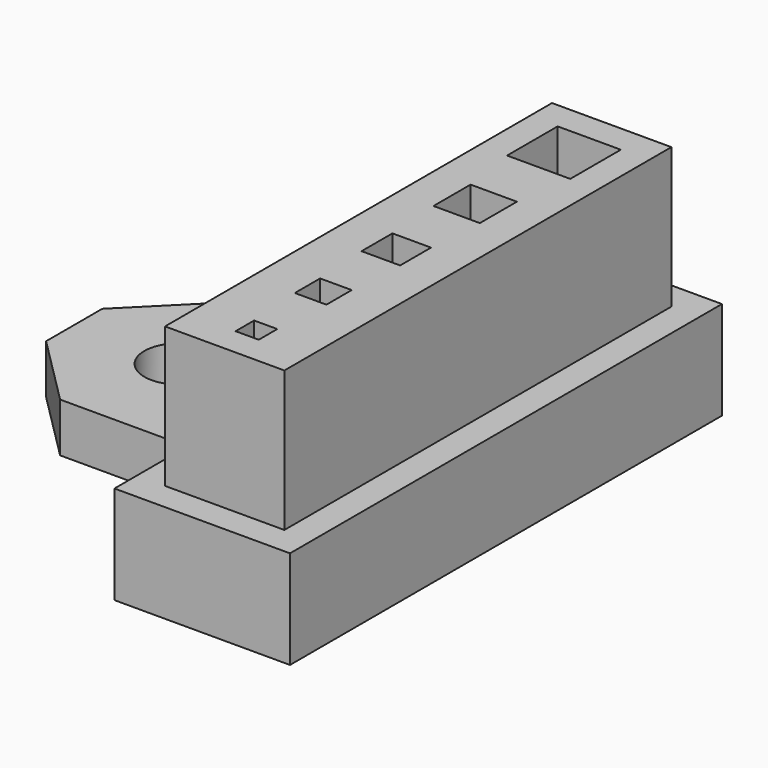
from build123d import *

# Parameters (mm, degrees)
F0_W     = 1.65
F0_H     = 1.65
F0_W_2   = 2.25
F0_H_2   = 2.25
F0_W_3   = 2.75
F0_H_3   = 2.75
F0_R     = 2.5
F0_W_4   = 3.3
F0_H_4   = 3.3
F0_W_5   = 4.5
F0_H_5   = 4.5
F1_DEPTH = 3.5
F2_W     = 1.65
F2_H     = 1.65
F2_W_2   = 2.25
F2_H_2   = 2.25
F2_W_3   = 2.75
F2_H_3   = 2.75
F2_W_4   = 3.3
F2_H_4   = 3.3
F2_W_5   = 4.5
F2_H_5   = 4.5
F3_DEPTH = 3.5
F4_W     = 8.5
F4_H     = 34.45
F5_DEPTH = 10
F6_SIZE  = 5


with BuildPart() as f1:
    # F0 (on Top) → F1 (new body)
    with BuildSketch(Plane.XY):
        Polygon((12.5, 19.225), (0, 19.225), (0, 7.5), (-18.25, 7.5), (-18.25, -7.5), (0, -7.5), (0, -19.225), (12.5, -19.225), align=None)
        with Locations((6.25, -14.4)):
            Rectangle(F0_W, F0_H, mode=Mode.SUBTRACT)
        with Locations((6.25, -8.45)):
            Rectangle(F0_W_2, F0_H_2, mode=Mode.SUBTRACT)
        with Locations((6.25, -1.95)):
            Rectangle(F0_W_3, F0_H_3, mode=Mode.SUBTRACT)
        with Locations((-10.75, 0)):
            Circle(F0_R, mode=Mode.SUBTRACT)
        with Locations((6.25, 5.075)):
            Rectangle(F0_W_4, F0_H_4, mode=Mode.SUBTRACT)
        with Locations((6.25, 12.975)):
            Rectangle(F0_W_5, F0_H_5, mode=Mode.SUBTRACT)
    extrude(amount=F1_DEPTH)

    # F2 (on face) → F3 (join)
    with BuildSketch(Plane.XY.offset(3.5)):
        Polygon((12.5, 19.225), (0, 19.225), (0, 7.5), (0, -7.5), (0, -19.225), (12.5, -19.225), align=None)
        with Locations((6.25, -14.4)):
            Rectangle(F2_W, F2_H, mode=Mode.SUBTRACT)
        with Locations((6.25, -8.45)):
            Rectangle(F2_W_2, F2_H_2, mode=Mode.SUBTRACT)
        with Locations((6.25, -1.95)):
            Rectangle(F2_W_3, F2_H_3, mode=Mode.SUBTRACT)
        with Locations((6.25, 5.075)):
            Rectangle(F2_W_4, F2_H_4, mode=Mode.SUBTRACT)
        with Locations((6.25, 12.975)):
            Rectangle(F2_W_5, F2_H_5, mode=Mode.SUBTRACT)
    extrude(amount=F3_DEPTH)

    # F4 (on face) → F5 (join)
    with BuildSketch(Plane.XY.offset(7)):
        with Locations((6.25, 0)):
            Rectangle(F4_W, F4_H)
        Polygon((5.425, -13.575), (6.75, -13.575), (7.075, -13.575), (7.075, -14.5), (7.075, -15.225), (6.75, -15.225), (5.425, -15.225), (5.425, -14.5), align=None, mode=Mode.SUBTRACT)
        Polygon((5.125, -7.325), (7, -7.325), (7.375, -7.325), (7.375, -9), (7.375, -9.575), (7, -9.575), (5.125, -9.575), (5.125, -9), align=None, mode=Mode.SUBTRACT)
        Polygon((4.875, -0.575), (7.25, -0.575), (7.625, -0.575), (7.625, -3), (7.625, -3.325), (7.25, -3.325), (4.875, -3.325), (4.875, -3), align=None, mode=Mode.SUBTRACT)
        Polygon((4.6, 6.725), (7.5, 6.725), (7.9, 6.725), (7.9, 6.5), (7.9, 3.5), (7.9, 3.425), (7.5, 3.425), (4.6, 3.425), (4.6, 3.5), (4.6, 6.5), align=None, mode=Mode.SUBTRACT)
        Polygon((8, 10.725), (4, 10.725), (4, 14.5), (4, 15.225), (8, 15.225), (8.5, 15.225), (8.5, 14.5), (8.5, 10.725), align=None, mode=Mode.SUBTRACT)
    extrude(amount=F5_DEPTH)

    # F6
    f6_edges = [f1.edges().sort_by_distance(p)[0] for p in [
        (0, 7.5, 1.75),
        (0, -7.5, 1.75),
        (-18.25, -7.5, 1.75),
        (-18.25, 7.5, 1.75),
    ]]
    chamfer(f6_edges, length=F6_SIZE)


solid = f1.part
